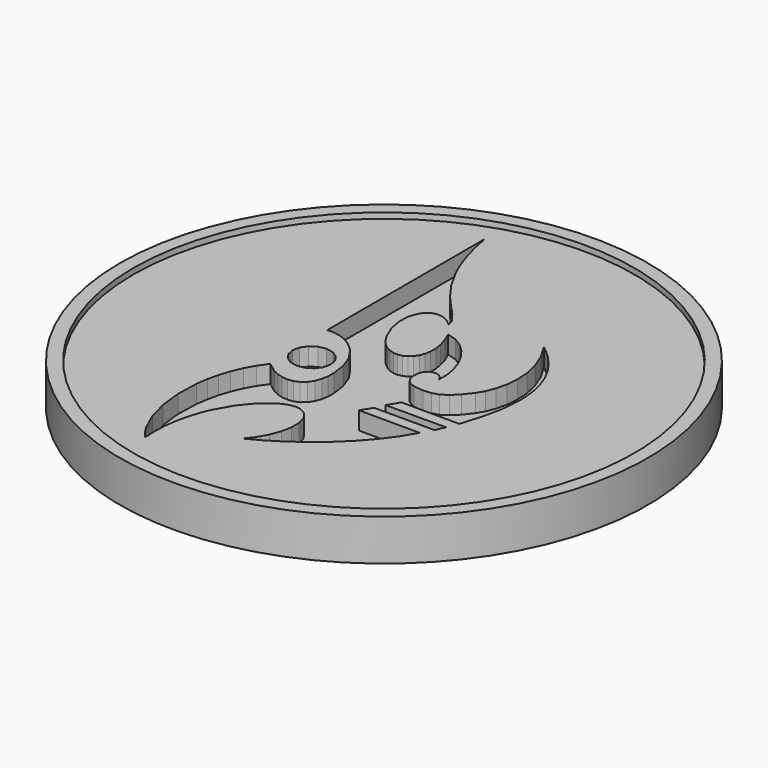
from build123d import *

# Parameters (mm, degrees)
F3_DEPTH = 3.175


with BuildPart() as f1:
    # F0 (on Front) → F1 (revolve)
    with BuildSketch(Plane.XZ):
        Polygon((-44.60875, 7.366), (-46.99, 7.366), (-46.99, 0), (0, 0), (0, 6.35), (-44.60875, 6.35), align=None)
    revolve(axis=Axis((0, 0, 3.175), (0, 0, -1)))

    # F2 (on face) → F3 (cut)
    with BuildSketch(Plane.XY.offset(6.35)):
        Polygon((-13.136034, 38.912354), (-13.105828, 3.757066), (-11.859001, 3.771245), (-10.660359, 3.537526), (-9.526933, 3.091542), (-8.475764, 2.468926), (-7.523901, 1.705309), (-6.688365, 0.836315), (-5.434484, -1.075276), (-4.651632, -3.288853), (-4.293584, -5.777134), (-4.324106, -7.01164), (-4.521094, -8.179643), (-4.904661, -9.236092), (-5.494886, -10.135925), (-6.268279, -10.791905), (-7.162464, -11.166064), (-8.139243, -11.287278), (-9.160387, -11.184392), (-10.187706, -10.886271), (-11.182993, -10.421768), (-12.924614, -9.109049), (-14.077223, -10.739327), (-15.044289, -12.482277), (-15.832252, -14.317493), (-16.447562, -16.224576), (-16.896672, -18.183107), (-17.186041, -20.17271), (-17.311352, -24.163445), (-16.875112, -28.033535), (-15.92893, -31.619757), (-14.524421, -34.758876), (-13.666418, -36.109751), (-12.713203, -37.287646), (-12.806471, -34.975058), (-12.698982, -32.758747), (-12.410626, -30.64813), (-11.961338, -28.652615), (-11.371018, -26.781629), (-10.65961, -25.04458), (-8.953136, -22.009984), (-7.001257, -19.624146), (-4.963309, -17.962417), (-3.961857, -17.426638), (-2.998644, -17.100127), (-2.093584, -16.99232), (-1.266589, -17.112616), (-0.547738, -17.414856), (0.049097, -17.837887), (0.894188, -18.994107), (1.303621, -20.476849), (1.312331, -22.181665), (0.955265, -24.004137), (0.267348, -25.839818), (-0.716463, -27.584268), (-1.961242, -29.13307), (0.694919, -27.714731), (3.341536, -26.055124), (5.929156, -24.178162), (8.408294, -22.107803), (10.729487, -19.867958), (12.84326, -17.482574), (14.70014, -14.975573), (16.250653, -12.370882), (5.408085, -12.340676), (6.616165, -10.437943), (17.337931, -10.437943), (18.092985, -8.776826), (7.341023, -8.807032), (8.549104, -6.783486), (18.878235, -6.813692), (20.078154, -2.783312), (20.717557, 0.236366), (21.025033, 3.701278), (20.970354, 5.548097), (20.731948, 7.443102), (20.27624, 9.36524), (19.569635, 11.293491), (18.57855, 13.206803), (17.269421, 15.084145), (15.608653, 16.904463), (13.56266, 18.646717), (15.106564, 16.045076), (16.115819, 13.497777), (16.659601, 11.049964), (16.807072, 8.746751), (16.627389, 6.633274), (16.189703, 4.754655), (15.563201, 3.15604), (14.817037, 1.882544), (13.560792, 0.283274), (12.379845, -0.875078), (11.235587, -1.620599), (10.089418, -1.981339), (8.639236, -2.107231), (6.944323, -1.932942), (6.162442, -1.641123), (5.508173, -1.163719), (5.044462, -0.463882), (4.834245, 0.495234), (4.906693, 1.477767), (5.207401, 2.224786), (5.673899, 2.738488), (6.243748, 3.02109), (6.854487, 3.074787), (7.443656, 2.901786), (7.948806, 2.504294), (8.307488, 1.884528), (8.318795, 3.616362), (8.001849, 5.432468), (7.385926, 7.246082), (6.500356, 8.970472), (5.374426, 10.518863), (4.037456, 11.804512), (2.518732, 12.740654), (0.847564, 13.240535), (1.51767, 11.651856), (1.942676, 10.195223), (2.144573, 8.877468), (2.145376, 7.705464), (1.967064, 6.686042), (1.631632, 5.826053), (1.161079, 5.132351), (0.5774, 4.611786), (-0.097415, 4.271211), (-0.841351, 4.117468), (-1.632439, 4.157409), (-2.448655, 4.397884), (-3.268038, 4.845748), (-4.068565, 5.50784), (-4.828243, 6.391013), (-5.525092, 7.502131), (-6.521002, 9.899941), (-6.928186, 12.120486), (-6.816748, 14.054397), (-6.256802, 15.592293), (-5.830562, 16.178549), (-5.318485, 16.624797), (-4.729337, 16.917354), (-4.07189, 17.042549), (-3.354908, 16.986719), (-2.587142, 16.736182), (-1.777377, 16.277264), (-0.934366, 15.596305), (-1.09684, 16.28627), (-1.439569, 16.97463), (-2.579857, 18.435592), (-4.183413, 20.157332), (-6.078396, 22.317982), (-8.092979, 25.095675), (-10.055332, 28.668541), (-10.963232, 30.808836), (-11.793627, 33.214723), (-12.525052, 35.90847), align=None)
        Polygon((-6.518141, -5.256094), (-6.24994, -3.97469), (-6.509726, -2.714876), (-7.249545, -1.646867), (-8.356745, -0.933242), (-9.662781, -0.682651), (-10.968817, -0.933242), (-12.076028, -1.646867), (-12.815836, -2.714876), (-13.075622, -3.97469), (-12.807422, -5.256094), (-12.076028, -6.302502), (-10.99121, -7.008008), (-9.662781, -7.266718), (-8.334352, -7.008008), (-7.249545, -6.302502), align=None)
    extrude(amount=-F3_DEPTH, mode=Mode.SUBTRACT)


solid = f1.part
